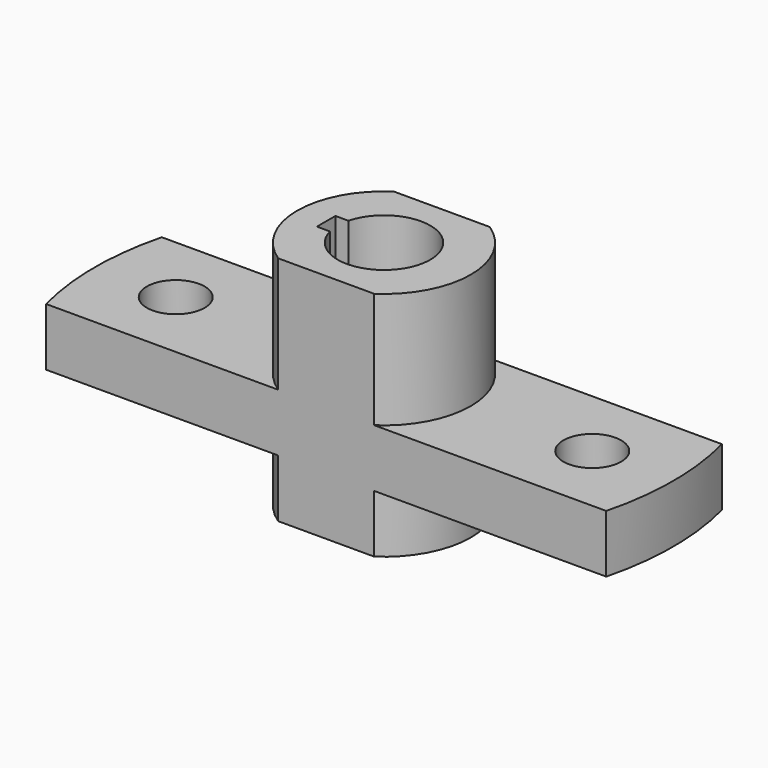
from build123d import *

# Parameters (mm, degrees)
F1_DEPTH      = 20
F1_DEPTH_BACK = 20
F0_R          = 5
F2_DEPTH      = 10


with BuildPart() as f1:
    # F0 (on Top) → F1 (new body, two sides)
    with BuildSketch(Plane.XY) as f1_sk:
        with BuildLine():
            Line((8.291562, 12.5), (-8.291562, 12.5))
            ThreePointArc((-8.291562, 12.5), (-15, 0), (-8.291562, -12.5))
            Line((-8.291562, -12.5), (8.291562, -12.5))
            ThreePointArc((8.291562, -12.5), (15, 0), (8.291562, 12.5))
        make_face()
        with BuildLine():
            ThreePointArc((-7.745967, 2), (8, 0), (-7.745967, -2))
            Line((-7.745967, -2), (-10, -2))
            Line((-10, -2), (-10, 2))
            Line((-10, 2), (-7.745967, 2))
        make_face(mode=Mode.SUBTRACT)
    extrude(amount=F1_DEPTH)
    extrude(f1_sk.sketch, amount=-F1_DEPTH_BACK)

    # F0 (on Top) → F2 (join)
    with BuildSketch(Plane.XY):
        with BuildLine():
            Line((-8.291562, 12.5), (-48.412292, 12.5))
            ThreePointArc((-48.412292, 12.5), (-50, 0), (-48.412292, -12.5))
            Line((-48.412292, -12.5), (-8.291562, -12.5))
            ThreePointArc((-8.291562, -12.5), (-15, 0), (-8.291562, 12.5))
        make_face()
        with Locations((-36, 0)):
            Circle(F0_R, mode=Mode.SUBTRACT)
        with BuildLine():
            Line((48.412292, 12.5), (8.291562, 12.5))
            ThreePointArc((8.291562, 12.5), (15, 0), (8.291562, -12.5))
            Line((8.291562, -12.5), (48.412292, -12.5))
            ThreePointArc((48.412292, -12.5), (50, 0), (48.412292, 12.5))
        make_face()
        with Locations((36, 0)):
            Circle(F0_R, mode=Mode.SUBTRACT)
    extrude(amount=-F2_DEPTH)


solid = f1.part
